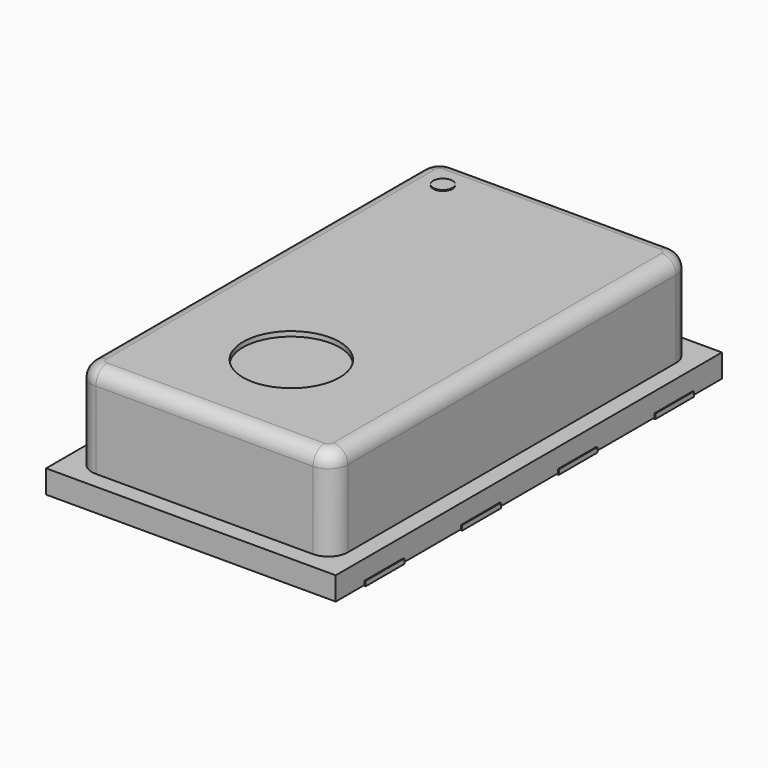
from build123d import *

# Parameters (mm, degrees)
BOX008_W          = 0.9
BOX008_H          = 0.5
BOX008_DEPTH      = 0.05
BOX009_W          = 0.9
BOX009_H          = 0.5
BOX009_DEPTH      = 0.05
BOX010_W          = 0.9
BOX010_H          = 0.5
BOX010_DEPTH      = 0.05
BOX007_W          = 0.9
BOX007_H          = 0.5
BOX007_DEPTH      = 0.05
BOX003_W          = 0.9
BOX003_H          = 0.5
BOX003_DEPTH      = 0.05
BOX006_W          = 0.9
BOX006_H          = 0.5
BOX006_DEPTH      = 0.05
BOX004_W          = 0.9
BOX004_H          = 0.5
BOX004_DEPTH      = 0.05
BOX005_W          = 0.9
BOX005_H          = 0.5
BOX005_DEPTH      = 0.05
CYLINDER_R        = 0.5
CYLINDER_DEPTH    = 0.2
BOX002_W          = 2.65
BOX002_H          = 4.65
BOX002_DEPTH      = 0.95
FILLET_R          = 0.2
FILLET001_R       = 0.15
BOX001_W          = 3
BOX001_H          = 5
BOX001_DEPTH      = 0.1
CYLINDER001_R     = 1
CYLINDER001_DEPTH = 0.1
CYLINDER002_R     = 0.1
CYLINDER002_DEPTH = 0.21
BOX_W             = 3
BOX_H             = 5
BOX_DEPTH         = 0.14


with BuildPart() as cube006:
    # Box008 → Box008 (new body)
    with BuildSketch(Plane(origin=(0.61, 0.375, 0), x_dir=(1, 0, 0), z_dir=(0, 0, 1))):
        with Locations((0.45, 0.25)):
            Rectangle(BOX008_W, BOX008_H)
    extrude(amount=BOX008_DEPTH)


with BuildPart() as cube007:
    # Box009 → Box009 (new body)
    with BuildSketch(Plane(origin=(0.61, -2.125, 0), x_dir=(1, 0, 0), z_dir=(0, 0, 1))):
        with Locations((0.45, 0.25)):
            Rectangle(BOX009_W, BOX009_H)
    extrude(amount=BOX009_DEPTH)


with BuildPart() as cube008:
    # Box010 → Box010 (new body)
    with BuildSketch(Plane(origin=(0.61, 1.625, 0), x_dir=(1, 0, 0), z_dir=(0, 0, 1))):
        with Locations((0.45, 0.25)):
            Rectangle(BOX010_W, BOX010_H)
    extrude(amount=BOX010_DEPTH)


with BuildPart() as fusion002:
    # Box007 → Box007 (new body)
    with BuildSketch(Plane(origin=(0.61, -0.875, 0), x_dir=(1, 0, 0), z_dir=(0, 0, 1))):
        with Locations((0.45, 0.25)):
            Rectangle(BOX007_W, BOX007_H)
    extrude(amount=BOX007_DEPTH)

    # Fusion002: union Cube006, Cube007, Cube008
    add(cube006.part)
    add(cube007.part)
    add(cube008.part)


with BuildPart() as fusion002_1:
    # Fusion002 placement: moved
    add(fusion002.part.moved(Location((-2.12, 0, 0))))


with BuildPart() as cube001:
    # Box003 → Box003 (new body)
    with BuildSketch(Plane(origin=(0.61, 0.375, 0), x_dir=(1, 0, 0), z_dir=(0, 0, 1))):
        with Locations((0.45, 0.25)):
            Rectangle(BOX003_W, BOX003_H)
    extrude(amount=BOX003_DEPTH)


with BuildPart() as cube004:
    # Box006 → Box006 (new body)
    with BuildSketch(Plane(origin=(0.61, -2.125, 0), x_dir=(1, 0, 0), z_dir=(0, 0, 1))):
        with Locations((0.45, 0.25)):
            Rectangle(BOX006_W, BOX006_H)
    extrude(amount=BOX006_DEPTH)


with BuildPart() as cube002:
    # Box004 → Box004 (new body)
    with BuildSketch(Plane(origin=(0.61, 1.625, 0), x_dir=(1, 0, 0), z_dir=(0, 0, 1))):
        with Locations((0.45, 0.25)):
            Rectangle(BOX004_W, BOX004_H)
    extrude(amount=BOX004_DEPTH)


with BuildPart() as pads:
    # Box005 → Box005 (new body)
    with BuildSketch(Plane(origin=(0.61, -0.875, 0), x_dir=(1, 0, 0), z_dir=(0, 0, 1))):
        with Locations((0.45, 0.25)):
            Rectangle(BOX005_W, BOX005_H)
    extrude(amount=BOX005_DEPTH)

    # Fusion001: union Cube001, Cube004, Cube002
    add(cube001.part)
    add(cube004.part)
    add(cube002.part)

    # Fusion003: union Fusion002
    add(fusion002_1.part)


with BuildPart() as cylinder:
    # Cylinder → Cylinder (new body)
    with BuildSketch(Plane(origin=(0, -1.2, 1.1), x_dir=(1, 0, 0), z_dir=(0, 0, 1))):
        Circle(CYLINDER_R)
    extrude(amount=CYLINDER_DEPTH)


with BuildPart() as cut:
    # Box002 → Box002 (new body)
    with BuildSketch(Plane(origin=(-1.325, -2.325, 0.25), x_dir=(1, 0, 0), z_dir=(0, 0, 1))):
        with Locations((1.325, 2.325)):
            Rectangle(BOX002_W, BOX002_H)
    extrude(amount=BOX002_DEPTH)

    # Fillet
    fillet_edges = [cut.edges().sort_by_distance(p)[0] for p in [
        (-1.325, -2.325, 0.725),
        (-1.325, 2.325, 0.725),
        (1.325, -2.325, 0.725),
        (1.325, 2.325, 0.725),
    ]]
    fillet(fillet_edges, radius=FILLET_R)

    # Fillet001
    fillet001_edges = [cut.edges().sort_by_distance(p)[0] for p in [
        (-1.325, 0, 1.2),
        (-1.266421, -2.266421, 1.2),
        (-1.266421, 2.266421, 1.2),
        (0, -2.325, 1.2),
        (0, 2.325, 1.2),
        (1.266421, -2.266421, 1.2),
        (1.266421, 2.266421, 1.2),
        (1.325, 0, 1.2),
    ]]
    fillet(fillet001_edges, radius=FILLET001_R)

    # Cut: cut Cylinder
    add(cylinder.part, mode=Mode.SUBTRACT)


with BuildPart() as body:
    # Box001 → Box001 (new body)
    with BuildSketch(Plane(origin=(-1.5, -2.5, 0.15), x_dir=(1, 0, 0), z_dir=(0, 0, 1))):
        with Locations((1.5, 2.5)):
            Rectangle(BOX001_W, BOX001_H)
    extrude(amount=BOX001_DEPTH)

    # Fusion: union Cut
    add(cut.part)


with BuildPart() as air_vent_hole:
    # Cylinder001 → Cylinder001 (new body)
    with BuildSketch(Plane(origin=(0, -1.2, 1.05), x_dir=(1, 0, 0), z_dir=(0, 0, 1))):
        Circle(CYLINDER001_R)
    extrude(amount=CYLINDER001_DEPTH)


with BuildPart() as pin_1_marker:
    # Cylinder002 → Cylinder002 (new body)
    with BuildSketch(Plane(origin=(-0.95, 1.95, 1), x_dir=(1, 0, 0), z_dir=(0, 0, 1))):
        Circle(CYLINDER002_R)
    extrude(amount=CYLINDER002_DEPTH)


with BuildPart() as obj1:
    # Box → Box (new body)
    with BuildSketch(Plane(origin=(-1.5, -2.5, 0.01), x_dir=(1, 0, 0), z_dir=(0, 0, 1))):
        with Locations((1.5, 2.5)):
            Rectangle(BOX_W, BOX_H)
    extrude(amount=BOX_DEPTH)

    # Fusion004: union Pads, Body, Air vent hole, Pin 1 marker
    add(pads.part)
    add(body.part)
    add(air_vent_hole.part)
    add(pin_1_marker.part)


solid = obj1.part
